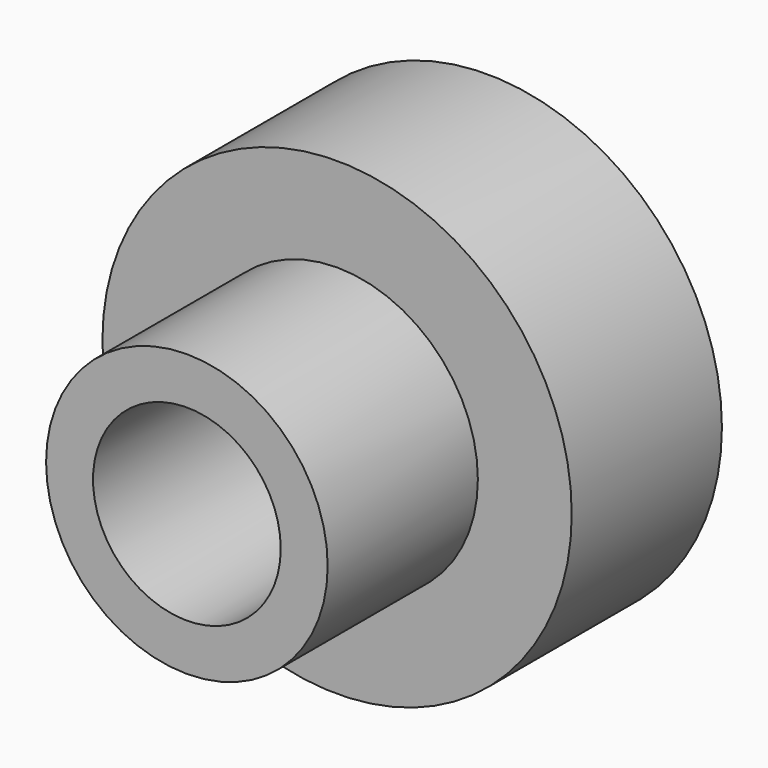
from build123d import *

# Parameters (mm, degrees)
F0_R        = 19.05
F0_R_2      = 12.7
F1_DEPTH    = 25.4
F0_R_3      = 31.75
F2_DEPTH    = 25.4
F1_FACE_R   = 19.05
F1_FACE_R_2 = 12.7
F3_DEPTH    = 9.525


with BuildPart() as f1:
    # F0 (on Front) → F1 (new body)
    with BuildSketch(Plane.XZ):
        Circle(F0_R)
        Circle(F0_R_2, mode=Mode.SUBTRACT)
    extrude(amount=F1_DEPTH)

    # F0 (on Front) → F2 (join)
    with BuildSketch(Plane.XZ):
        Circle(F0_R_3)
        Circle(F0_R, mode=Mode.SUBTRACT)
    extrude(amount=-F2_DEPTH)


with BuildPart() as f3:
    # F1_face (on face) → F3 (new body)
    with BuildSketch(Plane(origin=(0, 0, 0), x_dir=(1, 0, 0), z_dir=(0, 1, 0))):
        Circle(F1_FACE_R)
        Circle(F1_FACE_R_2, mode=Mode.SUBTRACT)
    extrude(amount=F3_DEPTH)


solid = Compound([f1.part, f3.part])
